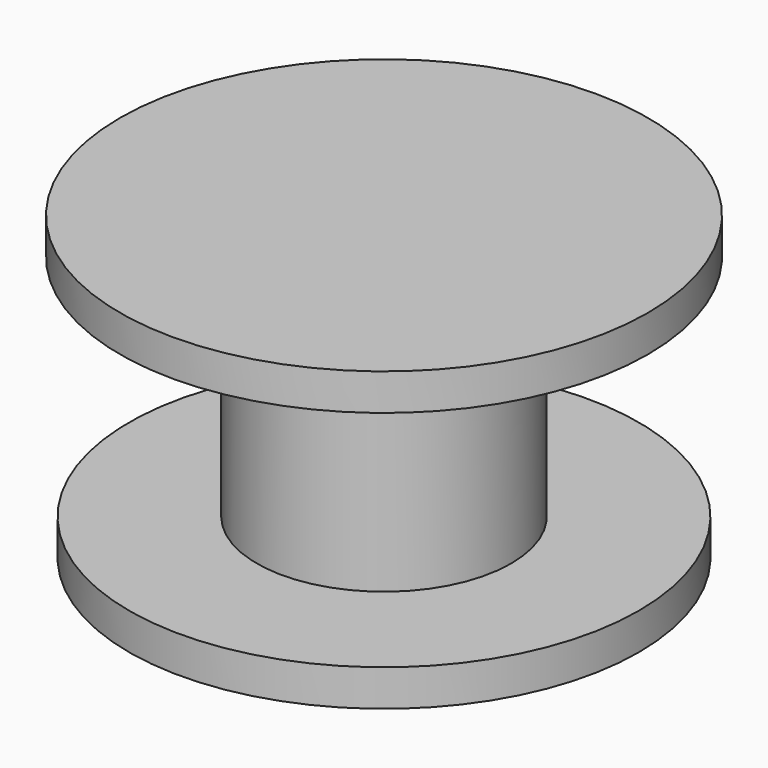
from build123d import *

# Parameters (mm, degrees)
F0_R     = 7.080456
F1_DEPTH = 1.016
F2_R     = 3.531639
F3_DEPTH = 6.35
F4_R     = 2.582772
F5_DEPTH = 6.35
F6_R     = 7.332478
F7_DEPTH = 1.016


with BuildPart() as f1:
    # F0 (on Top) → F1 (new body)
    with BuildSketch(Plane.XY):
        Circle(F0_R)
    extrude(amount=F1_DEPTH)

    # F2 (on face) → F3 (join)
    with BuildSketch(Plane.XY.offset(1.016)):
        Circle(F2_R)
    extrude(amount=F3_DEPTH)

    # F4 (on face) → F5 (cut)
    with BuildSketch(Plane.XY.offset(7.366)):
        Circle(F4_R)
    extrude(amount=-F5_DEPTH, mode=Mode.SUBTRACT)

    # F6 (on face) → F7 (join)
    with BuildSketch(Plane.XY.offset(7.366)):
        Circle(F6_R)
    extrude(amount=F7_DEPTH)


solid = f1.part
